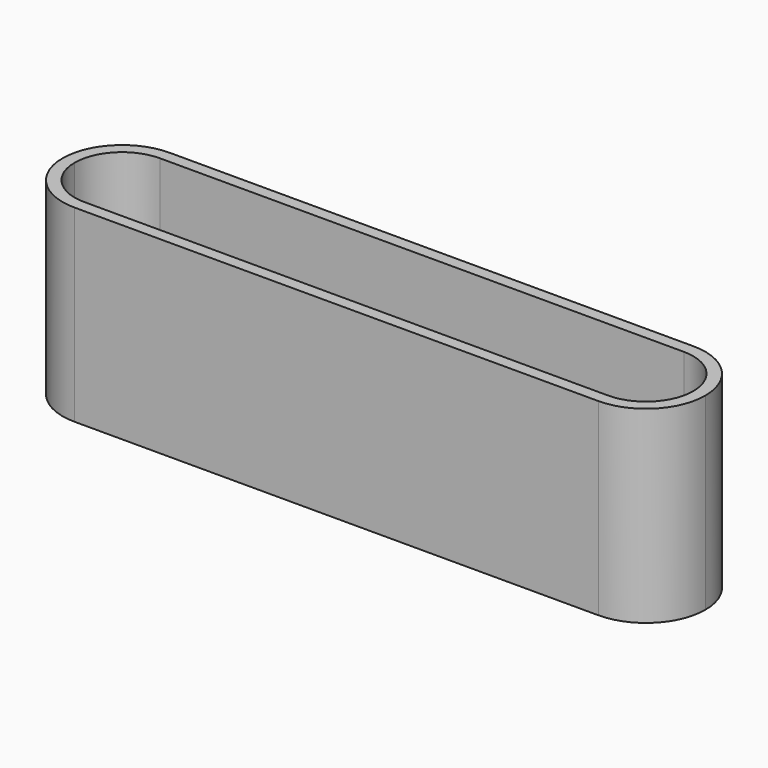
from build123d import *

# Parameters (mm, degrees)
F1_DEPTH = 25


with BuildPart() as f1:
    # F0 (on Top) → F1 (new body)
    with BuildSketch(Plane.XY):
        with BuildLine():
            Line((-34.725, -7.875), (34.725, -7.875))
            ThreePointArc((34.725, -7.875), (40.293466, -5.568466), (42.6, 0))
            ThreePointArc((42.6, 0), (40.293466, 5.568466), (34.725, 7.875))
            Line((34.725, 7.875), (-34.725, 7.875))
            ThreePointArc((-34.725, 7.875), (-40.293466, 5.568466), (-42.6, 0))
            ThreePointArc((-42.6, 0), (-40.293466, -5.568466), (-34.725, -7.875))
        make_face()
        with BuildLine():
            Line((-34.725, 6.275), (34.725, 6.275))
            ThreePointArc((34.725, 6.275), (39.162095, 4.437095), (41, 0))
            ThreePointArc((41, 0), (39.162095, -4.437095), (34.725, -6.275))
            Line((34.725, -6.275), (-34.725, -6.275))
            ThreePointArc((-34.725, -6.275), (-39.162095, -4.437095), (-41, 0))
            ThreePointArc((-41, 0), (-39.162095, 4.437095), (-34.725, 6.275))
        make_face(mode=Mode.SUBTRACT)
    extrude(amount=F1_DEPTH)


solid = f1.part
